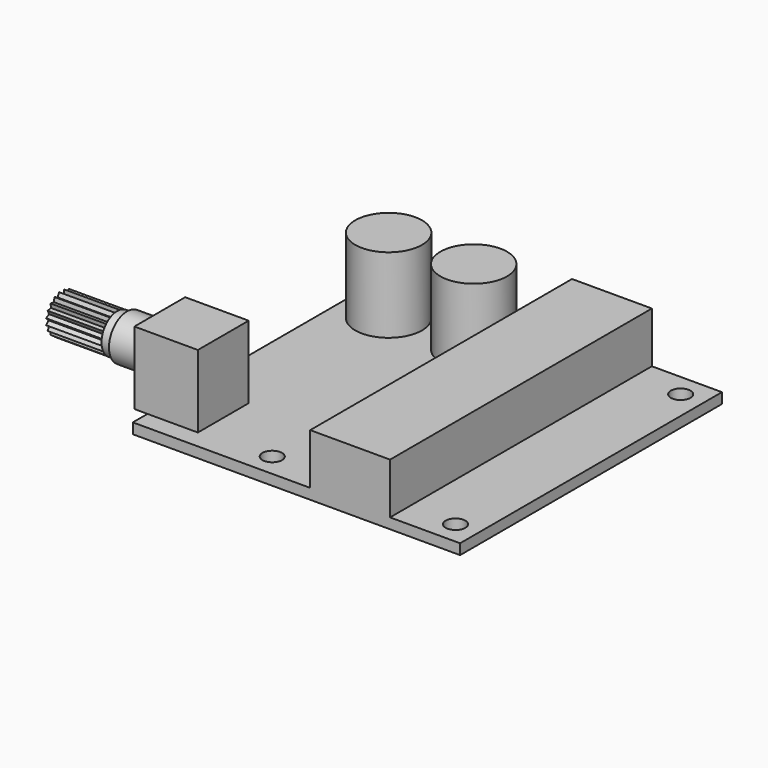
from build123d import *

# Parameters (mm, degrees)
F0_W      = 50
F0_H      = 50
F0_R      = 1.5
F1_DEPTH  = 1.6
F2_W      = 12.2
F2_H      = 50
F3_DEPTH  = 7.77
F4_R      = 5.1
F5_DEPTH  = 11.5
F6_W      = 9.7
F6_H      = 9.7
F7_DEPTH  = 11.1
F8_R      = 3.45
F9_DEPTH  = 5
F10_R     = 3
F11_DEPTH = 1.5
F13_DEPTH = 8.5


with BuildPart() as f1:
    # F0 (on Top) → F1 (new body)
    with BuildSketch(Plane.XY):
        Rectangle(F0_W, F0_H)
        with Locations((-6.5, -21.5)):
            Circle(F0_R, mode=Mode.SUBTRACT)
        with Locations((21.5, -21.5)):
            Circle(F0_R, mode=Mode.SUBTRACT)
        with Locations((21.5, 21.5)):
            Circle(F0_R, mode=Mode.SUBTRACT)
    extrude(amount=F1_DEPTH)

    # F2 (on face) → F3 (join)
    with BuildSketch(Plane.XY.offset(1.6)):
        with Locations((8.2, 0)):
            Rectangle(F2_W, F2_H)
    extrude(amount=F3_DEPTH)

    # F4 (on face) → F5 (join)
    with BuildSketch(Plane.XY.offset(1.6)):
        with Locations((-18, 15.1)):
            Circle(F4_R)
        with Locations((-5, 15.1)):
            Circle(F4_R)
    extrude(amount=F5_DEPTH)

    # F6 (on face) → F7 (join)
    with BuildSketch(Plane.XY.offset(1.6)):
        with Locations((-22.15, -17.35)):
            Rectangle(F6_W, F6_H)
    extrude(amount=F7_DEPTH)

    # F8 (on face) → F9 (join)
    with BuildSketch(Plane(origin=(-27, 0, 0), x_dir=(0, -1, 0), z_dir=(-1, 0, 0))):
        with Locations((17.35, 7.7)):
            Circle(F8_R)
    extrude(amount=F9_DEPTH)

    # F10 (on face) → F11 (join)
    with BuildSketch(Plane(origin=(-32, 0, 0), x_dir=(0, -1, 0), z_dir=(-1, 0, 0))):
        with Locations((17.35, 7.7)):
            Circle(F10_R)
    extrude(amount=F11_DEPTH)

    # F12 (on face) → F13 (join)
    with BuildSketch(Plane(origin=(-33.5, 0, 0), x_dir=(0, -1, 0), z_dir=(-1, 0, 0))):
        Polygon((16.880697, 4.736935), (16.880697, 10.663065), (16.577458, 10.077641), (15.988029, 10.37302), (15.880537, 9.722542), (15.22868, 9.82132), (15.327458, 9.169463), (14.67698, 9.061971), (14.972359, 8.472542), (14.386935, 8.169303), (14.85, 7.7), (14.386935, 7.230697), (14.972359, 6.927458), (14.67698, 6.338029), (15.327458, 6.230537), (15.22868, 5.57868), (15.880537, 5.677458), (15.988029, 5.02698), (16.577458, 5.322359), align=None)
        Polygon((18.122542, 10.077641), (17.819303, 10.663065), (17.819303, 4.736935), (18.122542, 5.322359), (18.711971, 5.02698), (18.819463, 5.677458), (19.47132, 5.57868), (19.372542, 6.230537), (20.02302, 6.338029), (19.727641, 6.927458), (20.313065, 7.230697), (19.85, 7.7), (20.313065, 8.169303), (19.727641, 8.472542), (20.02302, 9.061971), (19.372542, 9.169463), (19.47132, 9.82132), (18.819463, 9.722542), (18.711971, 10.37302), align=None)
    extrude(amount=F13_DEPTH)


solid = f1.part
